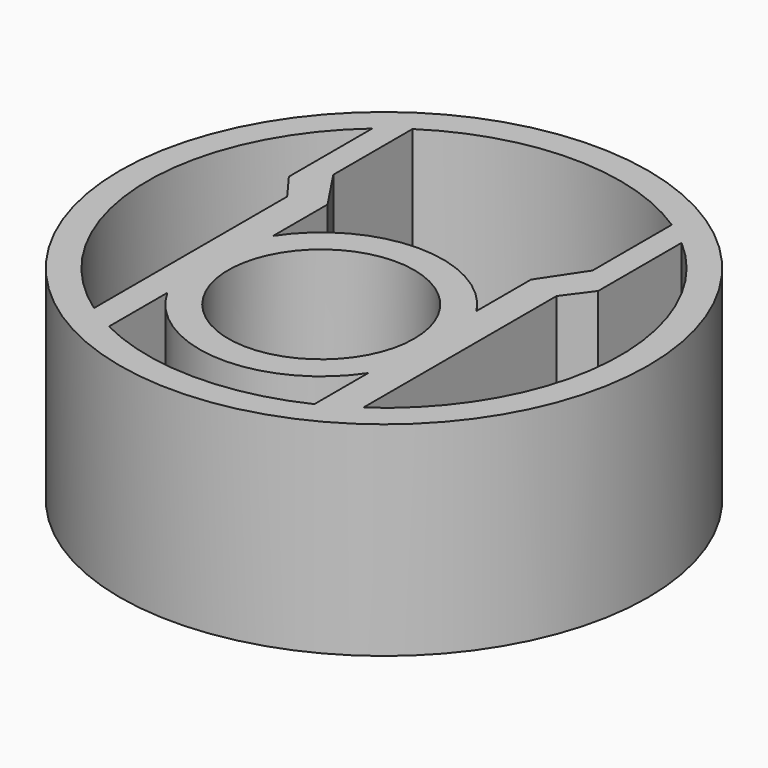
from build123d import *

# Parameters (mm, degrees)
F0_R     = 32.890522
F0_R_2   = 11.576292
F1_DEPTH = 25.4


with BuildPart() as f1:
    # F0 (on Top) → F1 (new body)
    with BuildSketch(Plane.XY):
        with Locations((36.280491, 36.996896)):
            Circle(F0_R)
        with BuildLine():
            ThreePointArc((48.881385, 10.403025), (35.940113, 7.570706), (23.067818, 10.701616))
            Line((23.067818, 10.701616), (23.067818, 19.783714))
            ThreePointArc((23.067818, 19.783714), (35.696865, 12.074644), (48.881385, 18.78963))
            Line((48.881385, 18.78963), (48.881385, 10.403025))
        make_face(mode=Mode.SUBTRACT)
        with BuildLine():
            Line((19.511687, 42.886119), (19.511687, 12.813768))
            ThreePointArc((19.511687, 12.813768), (6.89469, 35.41855), (17.017825, 59.244731))
            Line((17.017825, 59.244731), (17.017825, 46.268191))
            Line((17.017825, 46.268191), (19.511687, 42.886119))
        make_face(mode=Mode.SUBTRACT)
        with Locations((36.280491, 27.229772)):
            Circle(F0_R_2, mode=Mode.SUBTRACT)
        with BuildLine():
            Line((53.049296, 42.886119), (55.543158, 46.268191))
            Line((55.543158, 46.268191), (55.543158, 59.244731))
            ThreePointArc((55.543158, 59.244731), (65.666293, 35.41855), (53.049296, 12.813768))
            Line((53.049296, 12.813768), (53.049296, 42.886119))
        make_face(mode=Mode.SUBTRACT)
        with BuildLine():
            Line((20.1381, 49.27608), (20.1381, 61.602581))
            ThreePointArc((20.1381, 61.602581), (36.280491, 66.425054), (52.422883, 61.602581))
            Line((52.422883, 61.602581), (52.422883, 49.27608))
            Line((52.422883, 49.27608), (48.945498, 44.046022))
            Line((48.945498, 44.046022), (48.945498, 35.573399))
            ThreePointArc((48.945498, 35.573399), (36.280491, 42.396133), (23.615485, 35.573399))
            Line((23.615485, 35.573399), (23.615485, 44.046022))
            Line((23.615485, 44.046022), (20.1381, 49.27608))
        make_face(mode=Mode.SUBTRACT)
    extrude(amount=F1_DEPTH)


solid = f1.part
